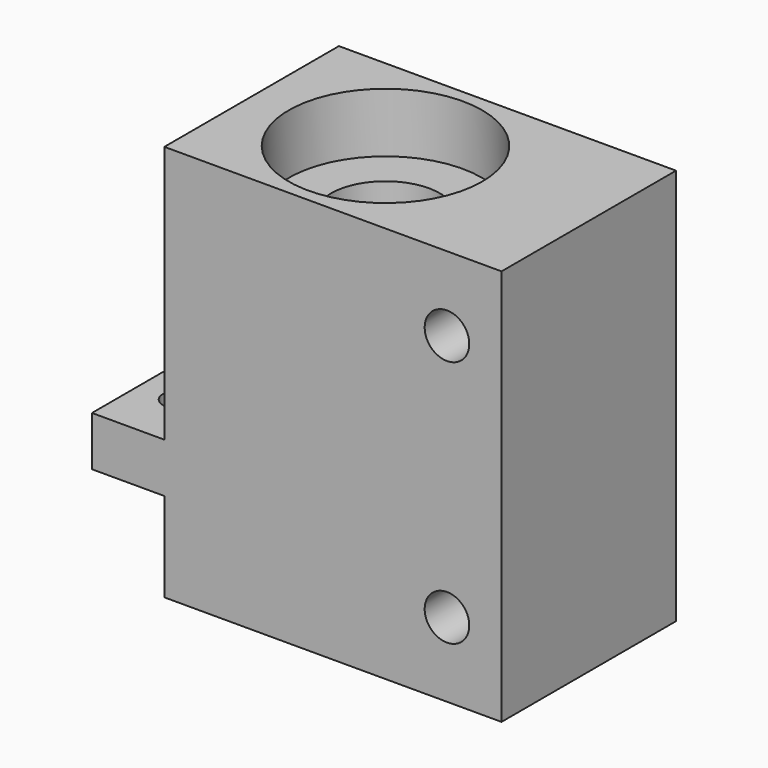
from build123d import *

# Parameters (mm, degrees)
PAD157_DEPTH            = 11
SKETCH229_R             = 9.75
POCKET054_DEPTH         = 6
SKETCH230_R             = 5.5
POCKET055_DEPTH         = 40
SKETCH231_R             = 9.75
POCKET056_DEPTH         = 6
SKETCH232_R             = 2.25
POCKET057_DEPTH         = 25
SKETCH233_R             = 1.5
POCKET058_DEPTH         = 5
BODY136_PLACEMENT_ANGLE = 180


with BuildPart() as part:
    # Sketch228 → Pad157 (new body, symmetric)
    with BuildSketch(Plane.XZ):
        Polygon((-20.5, 40), (-20.5, 0), (13.5, 0), (13.5, 9), (20.8, 9), (20.8, 14), (13.5, 14), (13.5, 40), align=None)
    extrude(amount=PAD157_DEPTH, both=True)

    # Sketch229 (on Face2 of Pad157) → Pocket054 (cut)
    with BuildSketch(Plane(origin=(0, 0, 0), x_dir=(1, 0, 0), z_dir=(0, 0, -1))):
        Circle(SKETCH229_R)
    extrude(amount=-POCKET054_DEPTH, mode=Mode.SUBTRACT)

    # Sketch230 (on Face12 of Pocket054) → Pocket055 (cut)
    with BuildSketch(Plane(origin=(0, 0, 6), x_dir=(1, 0, 0), z_dir=(0, 0, -1))):
        Circle(SKETCH230_R)
    extrude(amount=-POCKET055_DEPTH, mode=Mode.SUBTRACT)

    # Sketch231 (on Face2 of Pocket055) → Pocket056 (cut)
    with BuildSketch(Plane(origin=(0, 0, 40), x_dir=(-1, 0, 0), z_dir=(0, 0, 1))):
        Circle(SKETCH231_R)
    extrude(amount=-POCKET056_DEPTH, mode=Mode.SUBTRACT)

    # Sketch232 (on Face5 of Pocket056) → Pocket057 (cut)
    with BuildSketch(Plane.XZ.offset(11)):
        with Locations((-15, 32.5)):
            Circle(SKETCH232_R)
        with Locations((-15, 7.5)):
            Circle(SKETCH232_R)
    extrude(amount=-POCKET057_DEPTH, mode=Mode.SUBTRACT)

    # Sketch233 (on Face11 of Pocket057) → Pocket058 (cut)
    with BuildSketch(Plane(origin=(0, 0, 9), x_dir=(1, 0, 0), z_dir=(0, 0, -1))):
        with Locations((16.95, 5)):
            Circle(SKETCH233_R)
        with Locations((16.95, -5)):
            Circle(SKETCH233_R)
    extrude(amount=-POCKET058_DEPTH, mode=Mode.SUBTRACT)


with BuildPart() as part_1:
    # Body126 placement: moved
    add(part.part.moved(Location((-100, 0, 81))))


with BuildPart() as part_2:
    # Body136 placement: moved
    add(part_1.part.rotate(Axis((0, 0, 0), (0, 0, 1)), BODY136_PLACEMENT_ANGLE))


solid = part_2.part
